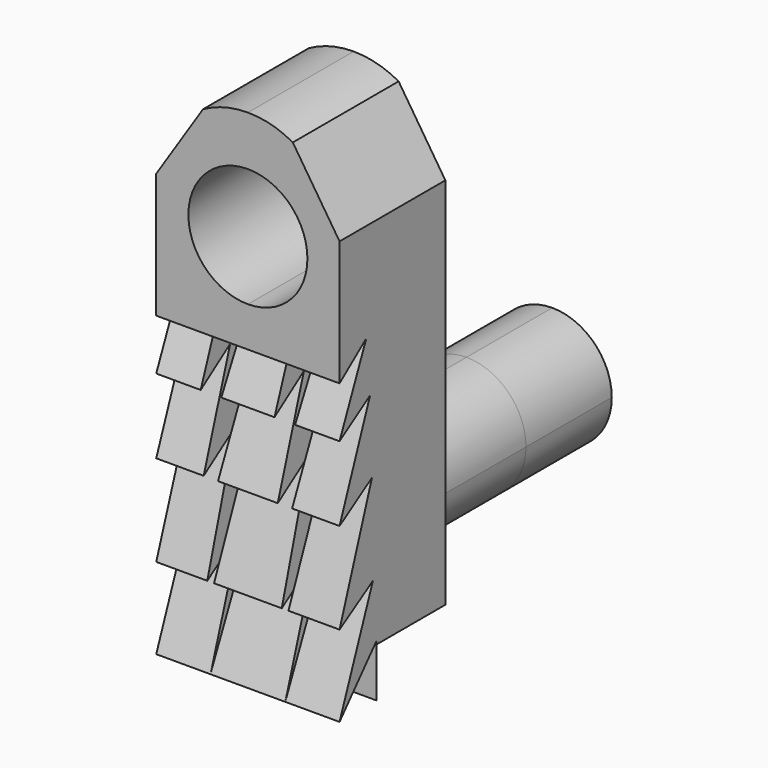
from build123d import *

# Parameters (mm, degrees)
F1_DEPTH  = 49.2252
F2_DEPTH  = 19.304
F3_DEPTH  = 25.4
F5_DEPTH  = 52.832
F7_DEPTH  = 11.938
F9_DEPTH  = 122.936
F12_DEPTH = 12.954


with BuildPart() as f1:
    # F0 (on Front) → F1 (new body)
    with BuildSketch(Plane.XZ):
        with BuildLine():
            Line((16.51, 0), (0, 0))
            Line((0, 0), (0, -18.3600114071))
            ThreePointArc((0, -18.3600114071), (7.5793361662, -21.4994752409), (10.7188, -29.0788114071))
            ThreePointArc((10.7188, -29.0788114071), (7.5793361662, -36.6581475733), (0, -39.7976114071))
            Line((0, -39.7976114071), (0, -50.8))
            Line((0, -50.8), (16.51, -50.8))
            Line((16.51, -50.8), (16.51, 0))
        make_face()
        with BuildLine():
            Line((0, 0), (-16.51, 0))
            Line((-16.51, 0), (-16.51, -50.8))
            Line((-16.51, -50.8), (0, -50.8))
            Line((0, -50.8), (0, -39.7976114071))
            ThreePointArc((0, -39.7976114071), (-10.7188, -29.0788114071), (0, -18.3600114071))
            Line((0, -18.3600114071), (0, 0))
        make_face()
        with BuildLine():
            Line((0, -39.7976114071), (0, -18.3600114071))
            ThreePointArc((0, -18.3600114071), (-10.7188, -29.0788114071), (0, -39.7976114071))
        make_face()
        with BuildLine():
            ThreePointArc((10.7188, -29.0788114071), (7.5793361662, -21.4994752409), (0, -18.3600114071))
            Line((0, -18.3600114071), (0, -39.7976114071))
            ThreePointArc((0, -39.7976114071), (7.5793361662, -36.6581475733), (10.7188, -29.0788114071))
        make_face()
        with BuildLine():
            ThreePointArc((8.0906830767, 38.3527952666), (4.1804071549, 39.9252126402), (0, 40.4608899692))
            Line((0, 40.4608899692), (0, 31.5013315929))
            ThreePointArc((0, 31.5013315929), (7.5793361662, 28.3618677591), (10.7188, 20.7825315929))
            ThreePointArc((10.7188, 20.7825315929), (7.5793361662, 13.2031954267), (0, 10.0637315929))
            Line((0, 10.0637315929), (0, 0))
            Line((0, 0), (16.51, 0))
            Line((16.51, 0), (16.51, 25.4))
            Line((16.51, 25.4), (8.0906830767, 38.3527952666))
        make_face()
        with BuildLine():
            Line((-8.0906830767, 38.3527952666), (-16.51, 25.4))
            Line((-16.51, 25.4), (-16.51, 0))
            Line((-16.51, 0), (0, 0))
            Line((0, 0), (0, 10.0637315929))
            ThreePointArc((0, 10.0637315929), (-10.7188, 20.7825315929), (0, 31.5013315929))
            Line((0, 31.5013315929), (0, 40.4608899692))
            ThreePointArc((0, 40.4608899692), (-4.1804071549, 39.9252126402), (-8.0906830767, 38.3527952666))
        make_face()
    extrude(amount=F1_DEPTH)

    # F0 (on Front) → F2 (join)
    with BuildSketch(Plane.XZ):
        with BuildLine():
            ThreePointArc((10.7188, -29.0788114071), (7.5793361662, -21.4994752409), (0, -18.3600114071))
            Line((0, -18.3600114071), (0, -39.7976114071))
            ThreePointArc((0, -39.7976114071), (7.5793361662, -36.6581475733), (10.7188, -29.0788114071))
        make_face()
        with BuildLine():
            Line((0, -39.7976114071), (0, -18.3600114071))
            ThreePointArc((0, -18.3600114071), (-10.7188, -29.0788114071), (0, -39.7976114071))
        make_face()
    extrude(amount=-F2_DEPTH)

    # F3 (cut): a face of the model
    f3_faces = [f1.faces().sort_by_distance(p)[0] for p in [
        (0, 0, -8.4904075725),
    ]]
    extrude(f3_faces, amount=-F3_DEPTH, mode=Mode.SUBTRACT)

    # F4 (on face) → F5 (cut)
    with BuildSketch(Plane.YZ.offset(16.51)):
        Polygon((-49.2252, 2.8803599998), (-49.2252, -6.2941201031), (-43.2053990662, 7.5742802583), align=None)
        Polygon((-49.2252, -6.2941201031), (-49.2252, -19.7358001024), (-42.3519611359, -1.8135600258), align=None)
        Polygon((-49.2252, -19.7358001024), (-49.2252, -36.1645184457), (-41.925240308, -15.0418793783), align=None)
        Polygon((-49.2252, -36.1645184457), (-49.2252, -50.8), (-41.7118817568, -31.4706005156), align=None)
        Polygon((-40.872938931, -41.2851572037), (-49.2252, -50.8), (-40.872938931, -50.8), align=None)
    extrude(amount=-F5_DEPTH, mode=Mode.SUBTRACT)

    # F6 (on face) → F7 (cut)
    with BuildSketch(Plane.XZ.offset(49.2252)):
        Polygon((-4.3883793987, 2.8803599998), (-8.8689392433, 2.8803599998), (-6.7353397608, -50.6730005145), align=None)
        Polygon((8.8689392433, 2.8803599998), (4.3883793987, 2.8803599998), (6.7353397608, -50.6730005145), align=None)
    extrude(amount=-F7_DEPTH, mode=Mode.SUBTRACT)

    # F8 (on face) → F9 (cut)
    with BuildSketch(Plane(origin=(-16.51, 0, 0), x_dir=(0, -1, 0), z_dir=(-1, 0, 0))):
        with BuildLine():
            Line((25.4, -50.8), (40.872938931, -50.8))
            ThreePointArc((40.872938931, -50.8), (34.7474899189, -43.6822897794), (25.4, -42.7837595344))
            Line((25.4, -42.7837595344), (25.4, -50.8))
        make_face()
    extrude(amount=-F9_DEPTH, mode=Mode.SUBTRACT)

    # F11 (on face) → F12 (cut)
    with BuildSketch(Plane.XY.offset(-54.8610159065)):
        with BuildLine():
            Line((-16.51, -25.4), (-16.51, -40.872938931))
            ThreePointArc((-16.51, -40.872938931), (-7.0919565047, -34.3774649993), (0, -25.4))
            Line((0, -25.4), (-16.51, -25.4))
        make_face()
        with BuildLine():
            Line((16.51, -25.4), (0, -25.4))
            ThreePointArc((0, -25.4), (7.0919565047, -34.3774649993), (16.51, -40.872938931))
            Line((16.51, -40.872938931), (16.51, -25.4))
        make_face()
    extrude(amount=F12_DEPTH, mode=Mode.SUBTRACT)


solid = f1.part
